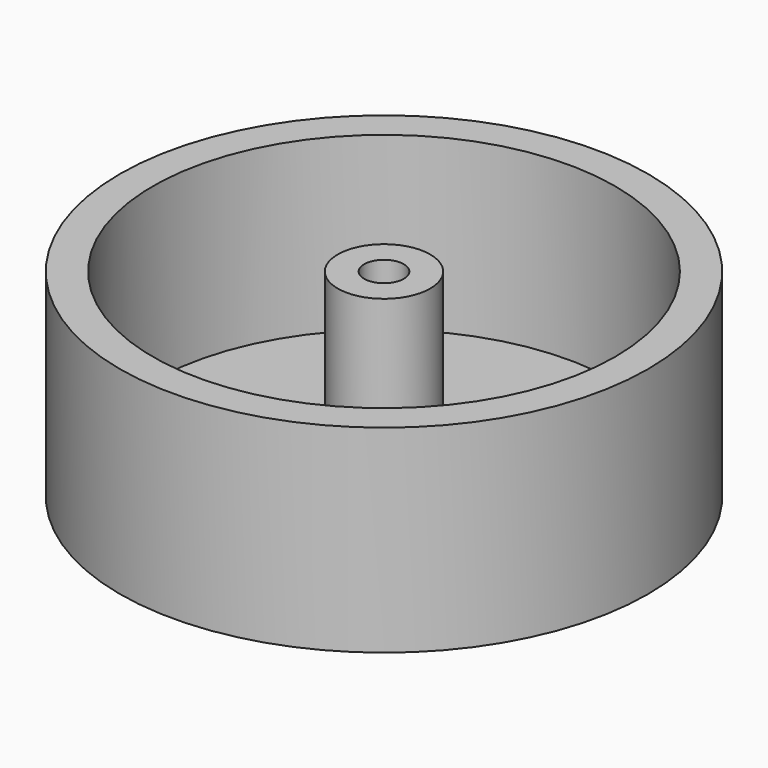
from build123d import *

# Parameters (mm, degrees)
F0_R     = 20
F1_DEPTH = 15
F2_R     = 17.5
F3_DEPTH = 13
F4_R     = 3.5
F4_R_2   = 1.5
F5_DEPTH = 13


with BuildPart() as f1:
    # F0 (on Top) → F1 (new body)
    with BuildSketch(Plane.XY):
        Circle(F0_R)
    extrude(amount=F1_DEPTH)

    # F2 (on face) → F3 (cut)
    with BuildSketch(Plane.XY.offset(15)):
        Circle(F2_R)
    extrude(amount=-F3_DEPTH, mode=Mode.SUBTRACT)

    # F4 (on face) → F5 (join)
    with BuildSketch(Plane.XY.offset(2)):
        Circle(F4_R)
        Circle(F4_R_2, mode=Mode.SUBTRACT)
    extrude(amount=F5_DEPTH)


solid = f1.part
